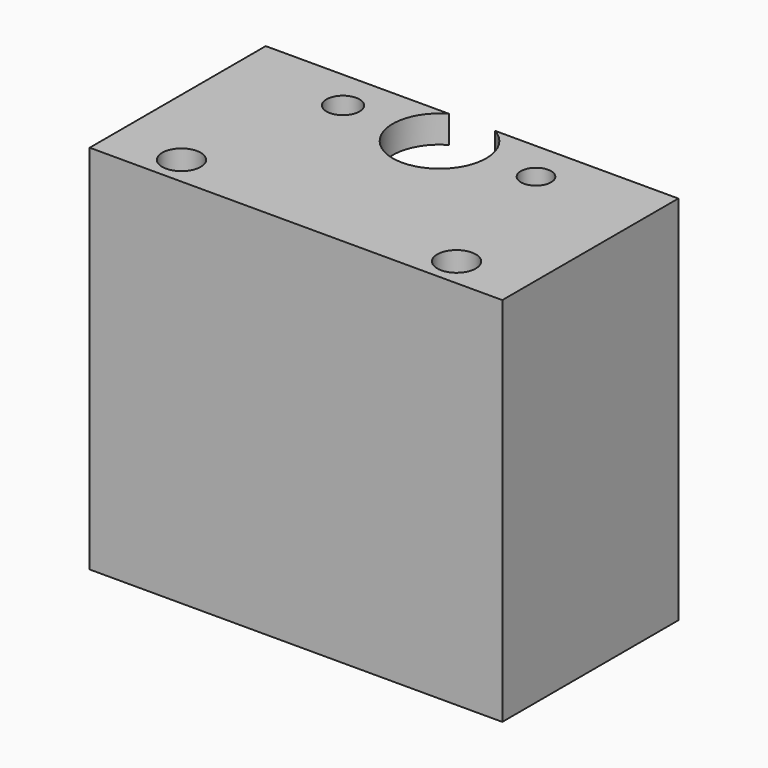
from build123d import *

# Parameters (mm, degrees)
SKETCH017_W     = 30
SKETCH017_H     = 16
PAD008_DEPTH    = 2
SKETCH018_R     = 3.4
POCKET008_DEPTH = 20
PAD009_DEPTH    = 25
SKETCH019_R     = 12.2
POCKET005_DEPTH = 30
SKETCH015_R     = 1.2
SKETCH015_R_2   = 1.1
POCKET006_DEPTH = 5
SKETCH016_R     = 1.4
POCKET007_DEPTH = 50


with BuildPart() as part:
    # Sketch017 → Pad008 (new body)
    with BuildSketch(Plane.XY.offset(30)):
        with Locations((0, -5.045388)):
            Rectangle(SKETCH017_W, SKETCH017_H)
    extrude(amount=PAD008_DEPTH)

    # Sketch018 (on Face3 of Pad007) → Pocket008 (cut)
    with BuildSketch(Plane.XY.offset(30)):
        Circle(SKETCH018_R)
    extrude(amount=POCKET008_DEPTH, mode=Mode.SUBTRACT)

    # Sketch017 → Pad009 (join)
    with BuildSketch(Plane.XY.offset(30)):
        with Locations((0, -5.045388)):
            Rectangle(SKETCH017_W, SKETCH017_H)
    extrude(amount=-PAD009_DEPTH)

    # Sketch019 → Pocket005 (cut)
    with BuildSketch(Plane.XY):
        Circle(SKETCH019_R)
    extrude(amount=POCKET005_DEPTH, mode=Mode.SUBTRACT)

    # Sketch015 (on Face5 of Pocket005) → Pocket006 (cut)
    with BuildSketch(Plane.XY.offset(32)):
        with Locations((-7.016269, 0)):
            Circle(SKETCH015_R)
        with Locations((7.016269, 0)):
            Circle(SKETCH015_R_2)
    extrude(amount=-POCKET006_DEPTH, mode=Mode.SUBTRACT)

    # Sketch016 (on Face5 of Pocket006) → Pocket007 (cut)
    with BuildSketch(Plane.XY.offset(32)):
        with Locations((-10, -10.95175)):
            Circle(SKETCH016_R)
        with Locations((10, -10.95175)):
            Circle(SKETCH016_R)
    extrude(amount=-POCKET007_DEPTH, mode=Mode.SUBTRACT)


solid = part.part
